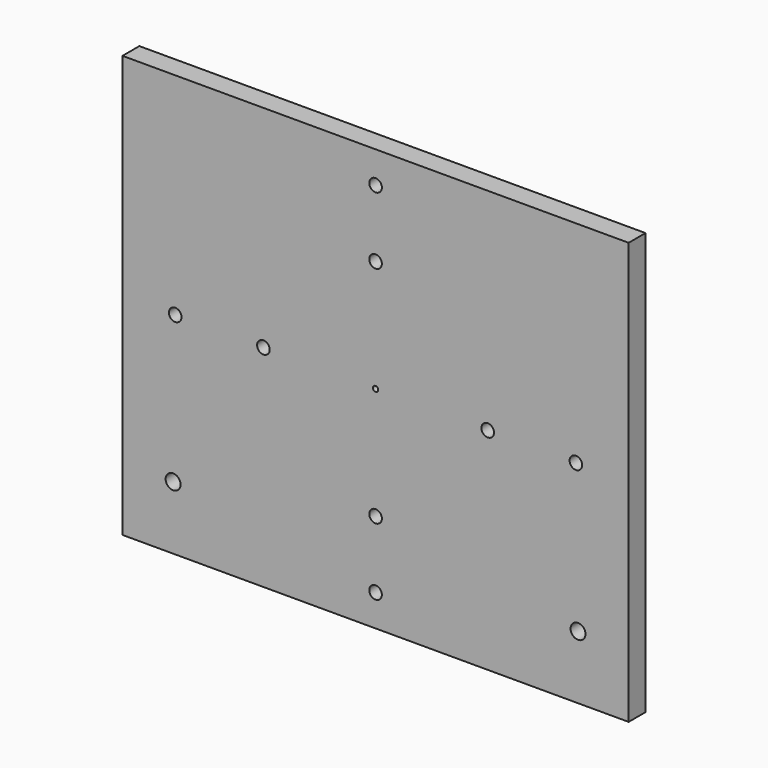
from build123d import *

# Parameters (mm, degrees)
F0_W     = 152.4
F0_H     = 127
F0_R     = 0.79375
F1_DEPTH = 6.35
F3_D     = 3.7973
F5_D     = 3.7973
F8_D     = 4.4958


with BuildPart() as f1:
    # F0 (on Front) → F1 (new body)
    with BuildSketch(Plane.XZ):
        Rectangle(F0_W, F0_H)
        Circle(F0_R, mode=Mode.SUBTRACT)
    extrude(amount=F1_DEPTH)

    # F3 (through all)
    with Locations(Plane(origin=(0, 0, 0), x_dir=(-1, 0, 0), z_dir=(0, 1, 0))):
        with Locations((0, 33.7693), (33.7693, 0), (-33.7693, 0), (0, -33.7693)):
            Hole(F3_D / 2)

    # F5 (through all)
    with Locations(Plane(origin=(0, 0, 0), x_dir=(-1, 0, 0), z_dir=(0, 1, 0))):
        with Locations((0, 53.975), (60.325, 0), (0, -53.975), (-60.325, 0)):
            Hole(F5_D / 2)

    # F8 (through all)
    with Locations(Plane.XZ.offset(6.35)):
        with Locations((-60.96, -44.45), (60.96, -44.45)):
            Hole(F8_D / 2)


solid = f1.part
